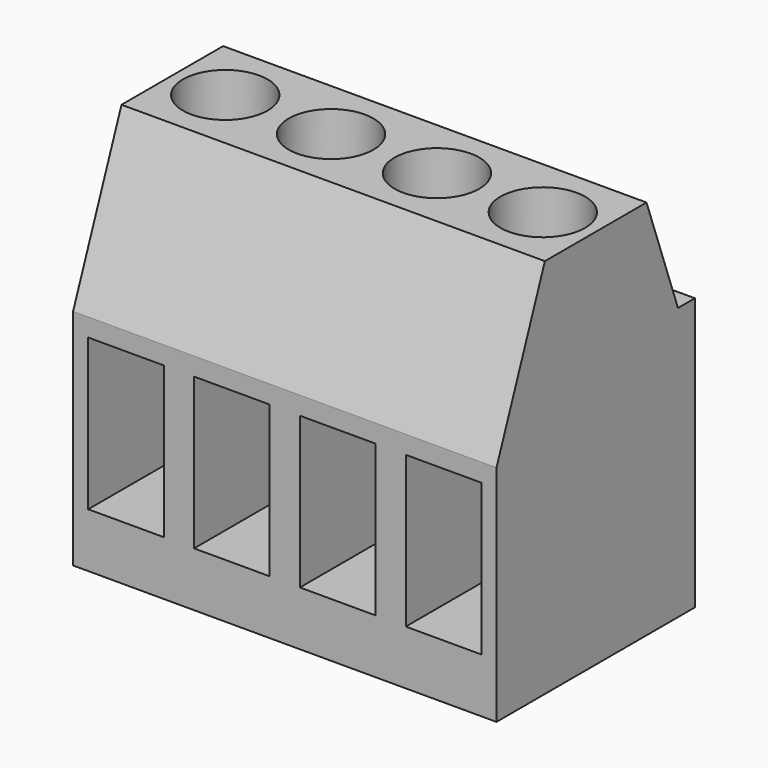
from build123d import *

# Parameters (mm, degrees)
BOX005_W          = 2.5
BOX005_H          = 6.5
BOX005_DEPTH      = 5
BOX006_W          = 2.5
BOX006_H          = 6.5
BOX006_DEPTH      = 5
BOX007_W          = 2.5
BOX007_H          = 6.5
BOX007_DEPTH      = 5
BOX004_W          = 2.5
BOX004_H          = 6.5
BOX004_DEPTH      = 5
CYLINDER001_R     = 1.4
CYLINDER001_DEPTH = 6.1
CYLINDER002_R     = 1.4
CYLINDER002_DEPTH = 6.1
CYLINDER003_R     = 1.4
CYLINDER003_DEPTH = 6.1
CYLINDER_R        = 1.4
CYLINDER_DEPTH    = 6.1
EXTRUDE_DEPTH     = 7


with BuildPart() as cube001:
    # Box005 → Box005 (new body)
    with BuildSketch(Plane(origin=(-3, 0, 1.8), x_dir=(1, 0, 0), z_dir=(0, 0, 1))):
        with Locations((1.25, 3.25)):
            Rectangle(BOX005_W, BOX005_H)
    extrude(amount=BOX005_DEPTH)


with BuildPart() as cube002:
    # Box006 → Box006 (new body)
    with BuildSketch(Plane(origin=(0.5, 0, 1.8), x_dir=(1, 0, 0), z_dir=(0, 0, 1))):
        with Locations((1.25, 3.25)):
            Rectangle(BOX006_W, BOX006_H)
    extrude(amount=BOX006_DEPTH)


with BuildPart() as cube003:
    # Box007 → Box007 (new body)
    with BuildSketch(Plane(origin=(4, 0, 1.8), x_dir=(1, 0, 0), z_dir=(0, 0, 1))):
        with Locations((1.25, 3.25)):
            Rectangle(BOX007_W, BOX007_H)
    extrude(amount=BOX007_DEPTH)


with BuildPart() as cube:
    # Box004 → Box004 (new body)
    with BuildSketch(Plane(origin=(-6.5, 0, 1.8), x_dir=(1, 0, 0), z_dir=(0, 0, 1))):
        with Locations((1.25, 3.25)):
            Rectangle(BOX004_W, BOX004_H)
    extrude(amount=BOX004_DEPTH)


with BuildPart() as cylinder001:
    # Cylinder001 → Cylinder001 (new body)
    with BuildSketch(Plane(origin=(5.25, 4.1, 6.8), x_dir=(1, 0, 0), z_dir=(0, 0, 1))):
        Circle(CYLINDER001_R)
    extrude(amount=CYLINDER001_DEPTH)


with BuildPart() as cylinder002:
    # Cylinder002 → Cylinder002 (new body)
    with BuildSketch(Plane(origin=(-1.75, 4.1, 6.8), x_dir=(1, 0, 0), z_dir=(0, 0, 1))):
        Circle(CYLINDER002_R)
    extrude(amount=CYLINDER002_DEPTH)


with BuildPart() as cylinder003:
    # Cylinder003 → Cylinder003 (new body)
    with BuildSketch(Plane(origin=(-5.25, 4.1, 6.8), x_dir=(1, 0, 0), z_dir=(0, 0, 1))):
        Circle(CYLINDER003_R)
    extrude(amount=CYLINDER003_DEPTH)


with BuildPart() as cylinder:
    # Cylinder → Cylinder (new body)
    with BuildSketch(Plane(origin=(1.75, 4.1, 6.8), x_dir=(1, 0, 0), z_dir=(0, 0, 1))):
        Circle(CYLINDER_R)
    extrude(amount=CYLINDER_DEPTH)


with BuildPart() as plastic_body:
    # Wire → Extrude (new body, symmetric)
    with BuildSketch(Plane.YZ):
        Polygon((0, 0), (0, 7.4), (2, 12.6), (6.2, 12.6), (7.5, 9), (8.2, 9), (8.2, 0), align=None)
    extrude(amount=EXTRUDE_DEPTH, both=True)

    # Cut: cut Cylinder
    add(cylinder.part, mode=Mode.SUBTRACT)

    # Cut001: cut Cylinder003
    add(cylinder003.part, mode=Mode.SUBTRACT)

    # Cut002: cut Cylinder002
    add(cylinder002.part, mode=Mode.SUBTRACT)

    # Cut003: cut Cylinder001
    add(cylinder001.part, mode=Mode.SUBTRACT)

    # Cut004: cut Cube
    add(cube.part, mode=Mode.SUBTRACT)

    # Cut005: cut Cube003
    add(cube003.part, mode=Mode.SUBTRACT)

    # Cut006: cut Cube002
    add(cube002.part, mode=Mode.SUBTRACT)

    # Cut007: cut Cube001
    add(cube001.part, mode=Mode.SUBTRACT)


solid = plastic_body.part
